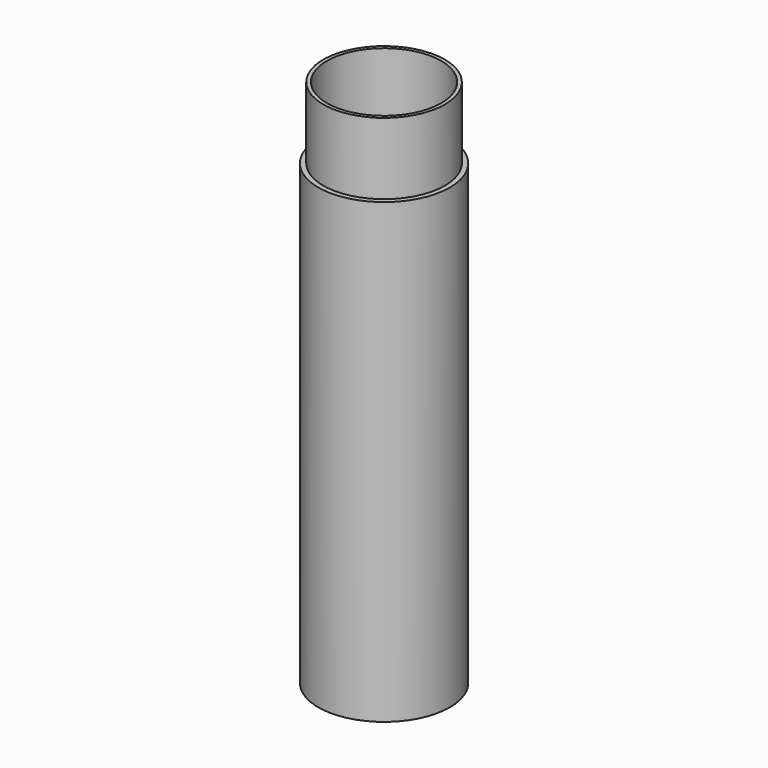
from build123d import *

# Parameters (mm, degrees)
F0_R     = 11.684
F1_DEPTH = 78.74
F2_R     = 10.16
F3_DEPTH = 76.2
F4_DEPTH = 2.54
F5_DEPTH = 7.62
F7_DEPTH = 7.62
F6_R     = 10.795
F6_R_2   = 10.16
F9_DEPTH = 12.7


with BuildPart() as f1:
    # F0 (on Top) → F1 (new body)
    with BuildSketch(Plane.XY):
        Circle(F0_R)
    extrude(amount=F1_DEPTH)

    # F2 (on face) → F3 (cut)
    with BuildSketch(Plane.XY.offset(78.74)):
        Circle(F2_R)
    extrude(amount=-F3_DEPTH, mode=Mode.SUBTRACT)

    # F4 (add): a face of the model
    f4_faces = [f1.faces().sort_by_distance(p)[0] for p in [
        (0, 0, 0),
    ]]
    extrude(f4_faces, amount=F4_DEPTH)

    # F5 (add): a face of the model
    f5_faces = [f1.faces().sort_by_distance(p)[0] for p in [
        (0, 0, -2.54),
    ]]
    extrude(f5_faces, amount=F5_DEPTH)

    # F7 (cut): a face of the model
    f7_faces = [f1.faces().sort_by_distance(p)[0] for p in [
        (0, 0, -10.16),
    ]]
    extrude(f7_faces, amount=-F7_DEPTH, mode=Mode.SUBTRACT)

    # F6 (on face) → F9 (join)
    with BuildSketch(Plane.XY.offset(78.74)):
        Circle(F6_R)
        Circle(F6_R_2, mode=Mode.SUBTRACT)
    extrude(amount=F9_DEPTH)


solid = f1.part
